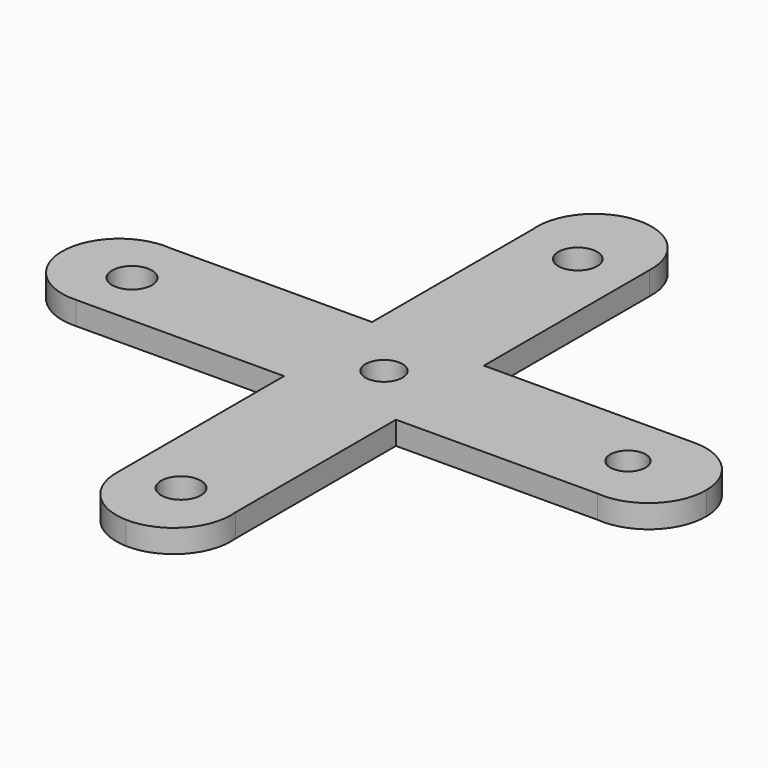
from build123d import *

# Parameters (mm, degrees)
F1_DEPTH = 4
F2_R     = 3.206317
F2_R_2   = 3.451214
F2_R_3   = 3.441299
F2_R_4   = 3.074185
F2_R_5   = 3.360927
F3_DEPTH = 114.2


with BuildPart() as f1:
    # F0 (on Top) → F1 (new body)
    with BuildSketch(Plane.XY):
        with BuildLine():
            Line((-10.177227, 10.137001), (0, 0))
            Line((0, 0), (0, 55.768573))
            ThreePointArc((0, 55.768573), (-7.564557, 52.623414), (-10.177227, 44.858847))
            Line((-10.177227, 44.858847), (-10.177227, 10.137001))
        make_face()
        with BuildLine():
            Line((10.177227, -10.137001), (0, 0))
            Line((0, 0), (0, -55.768573))
            ThreePointArc((0, -55.768573), (7.564557, -52.623414), (10.177227, -44.858847))
            Line((10.177227, -44.858847), (10.177227, -10.137001))
        make_face()
        with BuildLine():
            Line((-9.584378, -9.622411), (0, 0))
            Line((0, 0), (-55.77363, 0))
            ThreePointArc((-55.77363, 0), (-52.661321, -7.076175), (-45.413379, -9.764308))
            Line((-45.413379, -9.764308), (-9.584378, -9.622411))
        make_face()
        with BuildLine():
            Line((9.584378, 9.622411), (0, 0))
            Line((0, 0), (55.77363, 0))
            ThreePointArc((55.77363, 0), (52.661321, 7.076175), (45.413379, 9.764308))
            Line((45.413379, 9.764308), (9.584378, 9.622411))
        make_face()
        with BuildLine():
            Line((55.77363, 0), (0, 0))
            Line((0, 0), (10.177227, -10.137001))
            Line((10.177227, -10.137001), (44.8988, -9.99949))
            ThreePointArc((44.8988, -9.99949), (52.572062, -7.431314), (55.77363, 0))
        make_face()
        with BuildLine():
            Line((0, -55.768573), (0, 0))
            Line((0, 0), (-9.584378, -9.622411))
            Line((-9.584378, -9.622411), (-9.584378, -45.451693))
            ThreePointArc((-9.584378, -45.451693), (-6.943199, -52.60842), (0, -55.768573))
        make_face()
        with BuildLine():
            Line((0, 55.768573), (0, 0))
            Line((0, 0), (9.584378, 9.622411))
            Line((9.584378, 9.622411), (9.584378, 45.451693))
            ThreePointArc((9.584378, 45.451693), (6.943199, 52.60842), (0, 55.768573))
        make_face()
        with BuildLine():
            Line((-55.77363, 0), (0, 0))
            Line((0, 0), (-10.177227, 10.137001))
            Line((-10.177227, 10.137001), (-44.8988, 9.99949))
            ThreePointArc((-44.8988, 9.99949), (-52.572062, 7.431314), (-55.77363, 0))
        make_face()
    extrude(amount=F1_DEPTH)

    # F2 (on face) → F3 (cut)
    with BuildSketch(Plane.XY.offset(4)):
        Circle(F2_R)
        with Locations((-43.574344, 0)):
            Circle(F2_R_2)
        with Locations((0, -43.870769)):
            Circle(F2_R_3)
        with Locations((42.191032, 0)):
            Circle(F2_R_4)
        with Locations((0, 41.894607)):
            Circle(F2_R_5)
    extrude(amount=-F3_DEPTH, mode=Mode.SUBTRACT)


solid = f1.part
